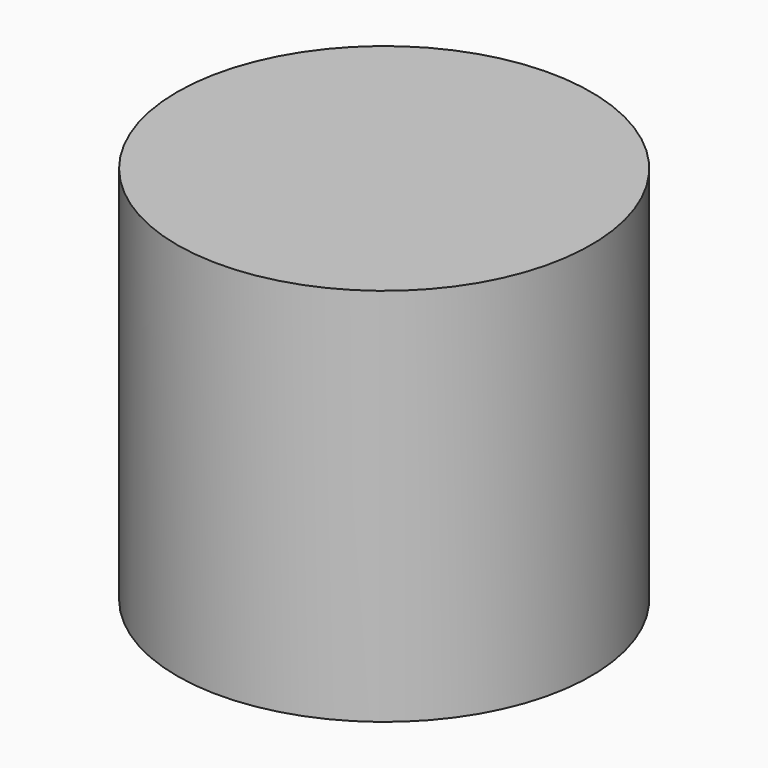
from build123d import *


with BuildPart() as f1:
    # F0 (on Front) → F1 (revolve)
    with BuildSketch(Plane.XZ):
        with BuildLine():
            Line((-60, 0), (-50, 0))
            ThreePointArc((-50, 0), (-35.355339, 35.355339), (0, 50))
            Line((0, 50), (0, 100))
            Line((0, 100), (-60, 100))
            Line((-60, 100), (-60, 0))
        make_face()
        with BuildLine():
            ThreePointArc((-48.989795, -10), (-49.746808, -5.025448), (-50, 0))
            Line((-50, 0), (-60, 0))
            Line((-60, 0), (-60, -10))
            Line((-60, -10), (-48.989795, -10))
        make_face()
    revolve(axis=Axis((0, 0, 59.863321), (0, 0, 1)))


solid = f1.part
